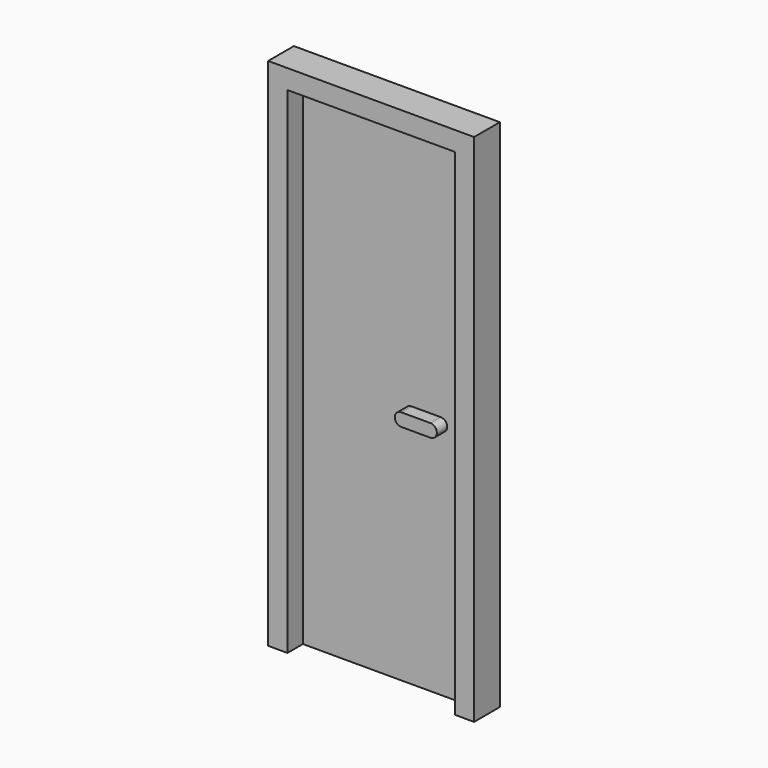
from build123d import *

# Parameters (mm, degrees)
F1_DEPTH = 2.5
F0_W     = 13
F0_H     = 38.5
F2_DEPTH = 1
F4_DEPTH = 1


with BuildPart() as f1:
    # F0 (on Front) → F1 (new body)
    with BuildSketch(Plane.XZ):
        Polygon((-11.071428, 40), (-11.071428, 0), (-9.571428, 0), (-9.571428, 38.5), (3.428572, 38.5), (3.428572, 0), (4.928572, 0), (4.928572, 40), align=None)
    extrude(amount=F1_DEPTH)

    # F0 (on Front) → F2 (join)
    with BuildSketch(Plane.XZ):
        with Locations((-3.071428, 19.25)):
            Rectangle(F0_W, F0_H)
    extrude(amount=F2_DEPTH)

    # F3 (on face) → F4 (join)
    with BuildSketch(Plane.XZ.offset(1)):
        with BuildLine():
            Line((1.137349, 19), (-1.132357, 19))
            ThreePointArc((-1.132357, 19), (-1.632357, 18.5), (-1.132357, 18))
            Line((-1.132357, 18), (1.137349, 18))
            ThreePointArc((1.137349, 18), (1.637349, 18.5), (1.137349, 19))
        make_face()
    extrude(amount=F4_DEPTH)


solid = f1.part
